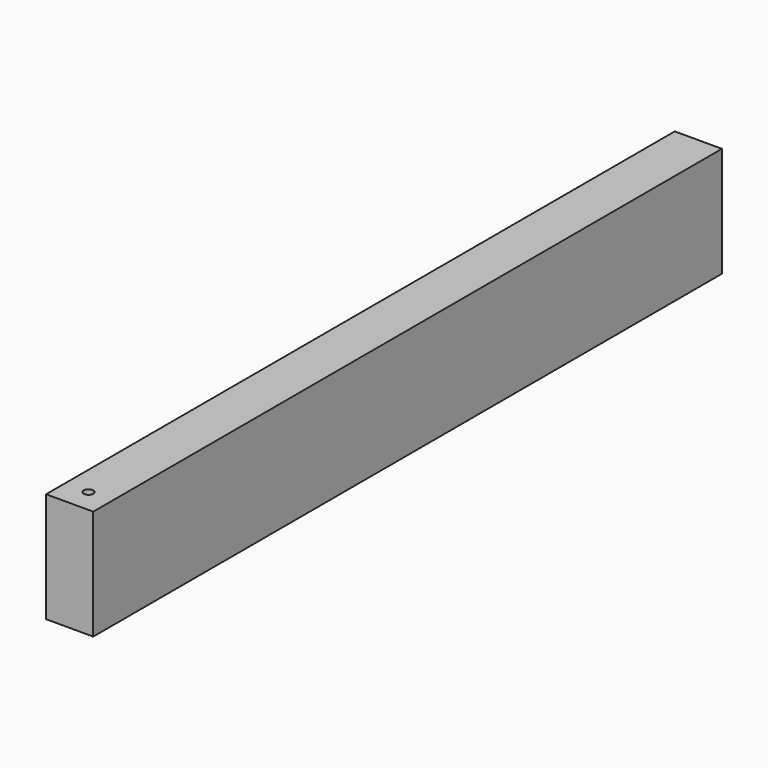
from build123d import *

# Parameters (mm, degrees)
F0_W     = 500
F0_H     = 70
F1_DEPTH = 30
F2_R     = 3
F3_DEPTH = 12
F4_R     = 3
F5_DEPTH = 12


with BuildPart() as f1:
    # F0 (on Right) → F1 (new body)
    with BuildSketch(Plane.YZ):
        with Locations((250, 33.764381)):
            Rectangle(F0_W, F0_H)
    extrude(amount=F1_DEPTH)

    # F2 (on face) → F3 (cut)
    with BuildSketch(Plane.XY.offset(68.764381)):
        with Locations((15, 15)):
            Circle(F2_R)
    extrude(amount=-F3_DEPTH, mode=Mode.SUBTRACT)

    # F4 (on face) → F5 (cut)
    with BuildSketch(Plane(origin=(0, 0, -1.235619), x_dir=(1, 0, 0), z_dir=(0, 0, -1))):
        with Locations((15, -15)):
            Circle(F4_R)
    extrude(amount=-F5_DEPTH, mode=Mode.SUBTRACT)


solid = f1.part
